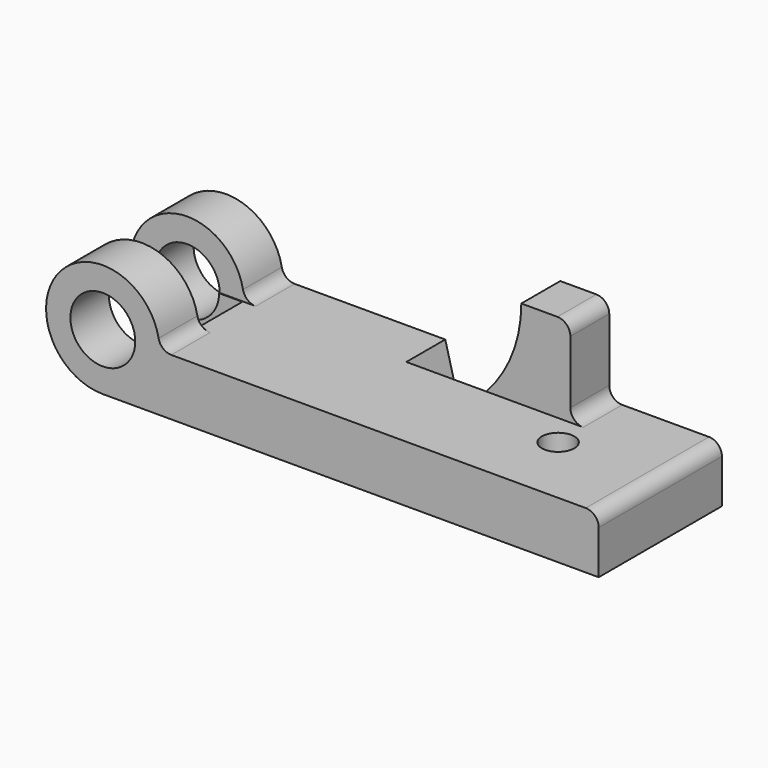
from build123d import *

# Parameters (mm, degrees)
F0_R      = 12.7
F0_W      = 19.2045877871
F0_H      = 34.798
F1_DEPTH  = 60.325
F2_W      = 54.1596032441
F2_H      = 22.3266
F3_DEPTH  = 34.799
F4_W      = 44.103635475
F4_H      = 22.1672710031
F5_DEPTH  = 25.4
F6_DEPTH  = 19.05
F7_DEPTH  = 19.05
F8_W      = 41.275
F8_H      = 34.798
F9_DEPTH  = 50.8
F10_R     = 6.35
F11_DEPTH = 22.226
F12_R     = 5.08


with BuildPart() as f1:
    # F0 (on Front) → F1 (new body)
    with BuildSketch(Plane.XZ):
        with BuildLine():
            Line((85.852, 0), (22.225, 0))
            ThreePointArc((22.225, 0), (15.7154482119, -15.7154482119), (0, -22.225))
            Line((0, -22.225), (91.694, -22.225))
            Line((91.694, -22.225), (85.852, 0))
        make_face()
        with BuildLine():
            ThreePointArc((0, -22.225), (15.7154482119, -15.7154482119), (22.225, 0))
            ThreePointArc((22.225, 0), (-15.7154482119, 15.7154482119), (0, -22.225))
        make_face()
        Circle(F0_R, mode=Mode.SUBTRACT)
        Polygon((130.8840122129, 0), (117.094, 0), (117.094, -22.225), (194.2084, -22.225), (194.2084, 0), (150.0886, 0), align=None)
        Polygon((117.094, 0), (85.852, 0), (91.694, -22.225), (117.094, -22.225), align=None)
        with BuildLine():
            ThreePointArc((130.8840122129, 34.798), (127.3108445203, 16.0825969798), (117.094, 0))
            Line((117.094, 0), (130.8840122129, 0))
            Line((130.8840122129, 0), (130.8840122129, 34.798))
        make_face()
        with Locations((140.4863061065, 17.399)):
            Rectangle(F0_W, F0_H)
    extrude(amount=F1_DEPTH)

    # F2 (on Top) → F3 (cut, through all)
    with BuildSketch(Plane.XY):
        with Locations((0.2378355712, -30.1625)):
            Rectangle(F2_W, F2_H)
    extrude(amount=F3_DEPTH, mode=Mode.SUBTRACT)

    # F4 (on Top) → F5 (cut)
    with BuildSketch(Plane.XY):
        with Locations((-0.2239840105, -30.3645441309)):
            Rectangle(F4_W, F4_H)
    extrude(amount=-F5_DEPTH, mode=Mode.SUBTRACT)

    # F0 (on Front) → F6 (cut)
    with BuildSketch(Plane.XZ):
        Polygon((117.094, 0), (85.852, 0), (91.694, -22.225), (117.094, -22.225), align=None)
    extrude(amount=-F6_DEPTH, mode=Mode.SUBTRACT)

    # F0 (on Front) → F7 (cut)
    with BuildSketch(Plane.XZ):
        Polygon((117.094, 0), (85.852, 0), (91.694, -22.225), (117.094, -22.225), align=None)
    extrude(amount=F7_DEPTH, mode=Mode.SUBTRACT)

    # F8 (on face) → F9 (cut)
    with BuildSketch(Plane.YZ.offset(150.0886)):
        with Locations((-39.6875, 17.399)):
            Rectangle(F8_W, F8_H)
    extrude(amount=-F9_DEPTH, mode=Mode.SUBTRACT)

    # F10 (on face) → F11 (cut, through all)
    with BuildSketch(Plane.XY):
        with Locations((155.3464, -31.623)):
            Circle(F10_R)
    extrude(amount=-F11_DEPTH, mode=Mode.SUBTRACT)

    # F12
    f12_edges = [f1.edges().sort_by_distance(p)[0] for p in [
        (150.0886, -9.525, 34.798),
        (150.0886, -9.525, 0),
        (194.2084, -30.1625, 0),
        (22.225, -50.8254, 0),
        (22.225, -9.4996, 0),
    ]]
    fillet(f12_edges, radius=F12_R)


solid = f1.part
